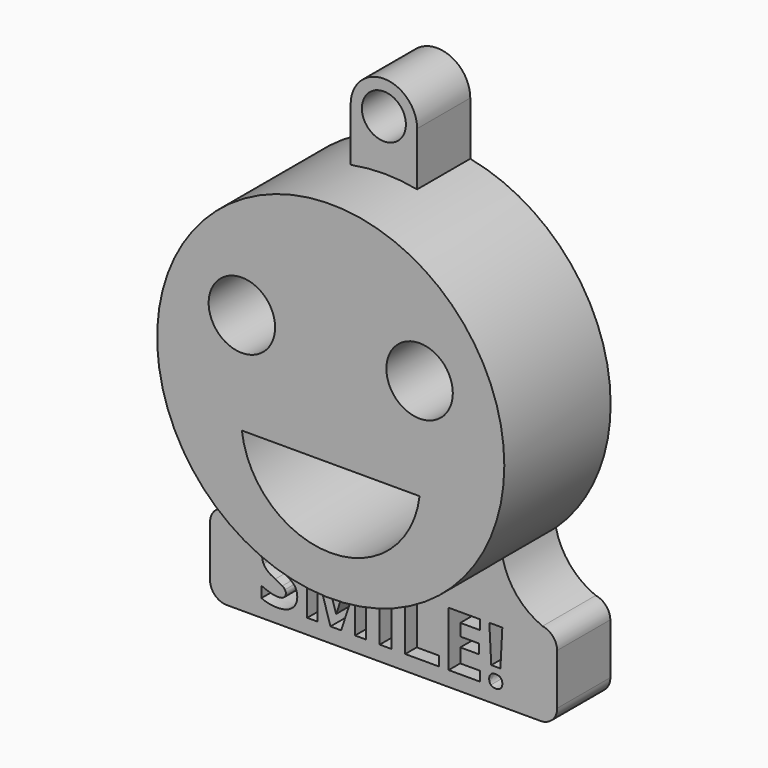
from build123d import *

# Parameters (mm, degrees)
F0_R         = 66.3530558333
F0_R_2       = 12.7
F1_DEPTH     = 25.4
F1_FACE_R    = 66.3530558333
F1_FACE_R_2  = 12.7
F1_FACE1_R   = 66.3530558333
F1_FACE1_R_2 = 12.7
F2_W         = 4.4507078564
F2_H         = 20.9858454036
F2_R         = 8.4066819866
F3_DEPTH     = 25.4


with BuildPart() as f1:
    # F0 (on Front) → F1 (new body)
    with BuildSketch(Plane.XZ):
        Circle(F0_R)
        with BuildLine():
            ThreePointArc((33.9692530815, -20.8659172058), (0, -51.0114037039), (-33.9692530815, -20.8659172058))
            Line((-33.9692530815, -20.8659172058), (33.9692530815, -20.8659172058))
        make_face(mode=Mode.SUBTRACT)
        with Locations((-33.9692530815, 17.9346787966)):
            Circle(F0_R_2, mode=Mode.SUBTRACT)
        with Locations((33.9692530815, 17.9346787966)):
            Circle(F0_R_2, mode=Mode.SUBTRACT)
    extrude(amount=F1_DEPTH)

    # F1_face (on face) + F1_face1 (on face) + F2 (on Front) → F3 (join)
    with BuildSketch(Plane(origin=(0, -25.4, 3.0362688443), x_dir=(1, 0, 0), z_dir=(0, -1, 0))):
        with Locations((0, -3.0362688443)):
            Circle(F1_FACE_R)
        with BuildLine():
            Line((-33.9692530815, -23.9021860501), (33.9692530815, -23.9021860501))
            ThreePointArc((33.9692530815, -23.9021860501), (0, -54.0476725482), (-33.9692530815, -23.9021860501))
        make_face(mode=Mode.SUBTRACT)
        with Locations((-33.9692530815, 14.8984099523)):
            Circle(F1_FACE_R_2, mode=Mode.SUBTRACT)
        with Locations((33.9692530815, 14.8984099523)):
            Circle(F1_FACE_R_2, mode=Mode.SUBTRACT)
    with BuildSketch(Plane(origin=(0, 0, 3.0362688443), x_dir=(1, 0, 0), z_dir=(0, 1, 0))):
        with Locations((0, 3.0362688443)):
            Circle(F1_FACE1_R)
        with BuildLine():
            Line((33.9692530815, 23.9021860501), (-33.9692530815, 23.9021860501))
            ThreePointArc((-33.9692530815, 23.9021860501), (0, 54.0476725482), (33.9692530815, 23.9021860501))
        make_face(mode=Mode.SUBTRACT)
        with Locations((-33.9692530815, -14.8984099523)):
            Circle(F1_FACE1_R_2, mode=Mode.SUBTRACT)
        with Locations((33.9692530815, -14.8984099523)):
            Circle(F1_FACE1_R_2, mode=Mode.SUBTRACT)
    with BuildSketch(Plane.XZ):
        with BuildLine():
            ThreePointArc((-62.3816600836, -66.6768364352), (-65.3384644923, -69.0084552345), (-66.4549320936, -72.6046530366))
            Line((-66.4549320936, -72.6046530366), (-66.4549320936, -92.0591460705))
            ThreePointArc((-66.4549320936, -92.0591460705), (-64.5950601542, -96.549274131), (-60.1049320936, -98.4091460705))
            Line((-60.1049320936, -98.4091460705), (59.8973428065, -98.4091460705))
            ThreePointArc((59.8973428065, -98.4091460705), (64.387470867, -96.549274131), (66.2473428065, -92.0591460705))
            Line((66.2473428065, -92.0591460705), (66.2473428065, -72.6046530366))
            ThreePointArc((66.2473428065, -72.6046530366), (64.5949199756, -68.4188649341), (60.649351561, -66.2546530366))
            Line((60.649351561, -66.2546530366), (58.6019530892, -66.2546530366))
            Line((58.6019530892, -66.2546530366), (-60.1049320936, -66.2546530366))
            ThreePointArc((-60.1049320936, -66.2546530366), (-60.5342273612, -66.2691810279), (-60.9615582829, -66.3126985253))
            ThreePointArc((-60.9615582829, -66.3126985253), (-61.6689814595, -66.5050153427), (-62.3816600836, -66.6768364352))
        make_face()
        with BuildLine():
            add(Edge.make_bspline(
                [(-34.2013412228, -83.4167571957), (-33.1104814541, -84.8291335278), (-33.1104814541, -86.8822464399)],
                knots=[0, 0, 0, 1, 1, 1], degree=2))
            add(Edge.make_bspline(
                [(-33.1104814541, -86.8822464399), (-33.1104814541, -89.7253714793), (-35.1567047255, -91.3628094058)],
                knots=[0, 0, 0, 1, 1, 1], degree=2))
            add(Edge.make_bspline(
                [(-35.1567047255, -91.3628094058), (-37.202927997, -93.0002473324), (-40.8452513511, -93.0002473324)],
                knots=[0, 0, 0, 1, 1, 1], degree=2))
            add(Edge.make_bspline(
                [(-40.8452513511, -93.0002473324), (-44.2073959857, -93.0002473324), (-46.7887146806, -91.7325534538)],
                knots=[0, 0, 0, 1, 1, 1], degree=2))
            Line((-46.7887146806, -91.7325534538), (-46.7887146806, -87.598769067))
            add(Edge.make_bspline(
                [(-46.7887146806, -87.598769067), (-44.666705362, -88.5495394759), (-43.194618811, -88.935359352)],
                knots=[0, 0, 0, 1, 1, 1], degree=2))
            add(Edge.make_bspline(
                [(-43.194618811, -88.935359352), (-41.7225322599, -89.3211792281), (-40.5007693189, -89.3211792281)],
                knots=[0, 0, 0, 1, 1, 1], degree=2))
            add(Edge.make_bspline(
                [(-40.5007693189, -89.3211792281), (-39.0401655022, -89.3211792281), (-38.2570430156, -88.7631183359)],
                knots=[0, 0, 0, 1, 1, 1], degree=2))
            add(Edge.make_bspline(
                [(-38.2570430156, -88.7631183359), (-37.473920529, -88.2050574437), (-37.473920529, -87.0981218468)],
                knots=[0, 0, 0, 1, 1, 1], degree=2))
            add(Edge.make_bspline(
                [(-37.473920529, -87.0981218468), (-37.473920529, -86.4826472825), (-37.8184025612, -86.0003724374)],
                knots=[0, 0, 0, 1, 1, 1], degree=2))
            add(Edge.make_bspline(
                [(-37.8184025612, -86.0003724374), (-38.1628845935, -85.5180975923), (-38.831179736, -85.0748640441)],
                knots=[0, 0, 0, 1, 1, 1], degree=2))
            add(Edge.make_bspline(
                [(-38.831179736, -85.0748640441), (-39.4994748785, -84.631630496), (-41.5525877906, -83.6533015245)],
                knots=[0, 0, 0, 1, 1, 1], degree=2))
            add(Edge.make_bspline(
                [(-41.5525877906, -83.6533015245), (-43.4725009836, -82.7484620531), (-44.434754127, -81.917112082)],
                knots=[0, 0, 0, 1, 1, 1], degree=2))
            add(Edge.make_bspline(
                [(-44.434754127, -81.917112082), (-45.3970072704, -81.0857621109), (-45.9711439908, -79.978826514)],
                knots=[0, 0, 0, 1, 1, 1], degree=2))
            add(Edge.make_bspline(
                [(-45.9711439908, -79.978826514), (-46.5452807111, -78.8718909171), (-46.5452807111, -77.3975078191)],
                knots=[0, 0, 0, 1, 1, 1], degree=2))
            add(Edge.make_bspline(
                [(-46.5452807111, -77.3975078191), (-46.5452807111, -74.6094999049), (-44.6575191745, -73.017992916)],
                knots=[0, 0, 0, 1, 1, 1], degree=2))
            add(Edge.make_bspline(
                [(-44.6575191745, -73.017992916), (-42.7697576379, -71.4264859271), (-39.4397646596, -71.4264859271)],
                knots=[0, 0, 0, 1, 1, 1], degree=2))
            add(Edge.make_bspline(
                [(-39.4397646596, -71.4264859271), (-37.80462328, -71.4264859271), (-36.3187574476, -71.8123058032)],
                knots=[0, 0, 0, 1, 1, 1], degree=2))
            add(Edge.make_bspline(
                [(-36.3187574476, -71.8123058032), (-34.8328916152, -72.1981256793), (-33.2115295168, -72.900869025)],
                knots=[0, 0, 0, 1, 1, 1], degree=2))
            Line((-33.2115295168, -72.900869025), (-34.6445747709, -76.3640617224))
            add(Edge.make_bspline(
                [(-34.6445747709, -76.3640617224), (-36.3256470882, -75.6750976579), (-37.4233964976, -75.401808579)],
                knots=[0, 0, 0, 1, 1, 1], degree=2))
            add(Edge.make_bspline(
                [(-37.4233964976, -75.401808579), (-38.521145907, -75.1285195001), (-39.5821505663, -75.1285195001)],
                knots=[0, 0, 0, 1, 1, 1], degree=2))
            add(Edge.make_bspline(
                [(-39.5821505663, -75.1285195001), (-40.8452513511, -75.1285195001), (-41.5204361343, -75.7164355018)],
                knots=[0, 0, 0, 1, 1, 1], degree=2))
            add(Edge.make_bspline(
                [(-41.5204361343, -75.7164355018), (-42.1956209175, -76.3043515035), (-42.1956209175, -77.2505288187)],
                knots=[0, 0, 0, 1, 1, 1], degree=2))
            add(Edge.make_bspline(
                [(-42.1956209175, -77.2505288187), (-42.1956209175, -77.8384448204), (-41.9223318386, -78.2770852747)],
                knots=[0, 0, 0, 1, 1, 1], degree=2))
            add(Edge.make_bspline(
                [(-41.9223318386, -78.2770852747), (-41.6490427597, -78.7157257291), (-41.0542371174, -79.124511074)],
                knots=[0, 0, 0, 1, 1, 1], degree=2))
            add(Edge.make_bspline(
                [(-41.0542371174, -79.124511074), (-40.459431475, -79.533296419), (-38.2363740937, -80.5943010782)],
                knots=[0, 0, 0, 1, 1, 1], degree=2))
            add(Edge.make_bspline(
                [(-38.2363740937, -80.5943010782), (-35.2922009915, -82.0043808635), (-34.2013412228, -83.4167571957)],
                knots=[0, 0, 0, 1, 1, 1], degree=2))
        make_face(mode=Mode.SUBTRACT)
        with BuildLine():
            Line((-16.3456892187, -92.7108824253), (-20.4243564804, -92.7108824253))
            Line((-20.4243564804, -92.7108824253), (-25.4767596198, -76.2492343783))
            Line((-25.4767596198, -76.2492343783), (-25.6053662451, -76.2492343783))
            add(Edge.make_bspline(
                [(-25.6053662451, -76.2492343783), (-25.3297806194, -81.2694858614), (-25.3297806194, -82.9505581787)],
                knots=[0, 0, 0, 1, 1, 1], degree=2))
            Line((-25.3297806194, -82.9505581787), (-25.3297806194, -92.7108824253))
            Line((-25.3297806194, -92.7108824253), (-29.3073998182, -92.7108824253))
            Line((-29.3073998182, -92.7108824253), (-29.3073998182, -71.7250370217))
            Line((-29.3073998182, -71.7250370217), (-23.2491091447, -71.7250370217))
            Line((-23.2491091447, -71.7250370217), (-18.2839747868, -87.77330663))
            Line((-18.2839747868, -87.77330663), (-18.1967060053, -87.77330663))
            Line((-18.1967060053, -87.77330663), (-12.928427459, -71.7250370217))
            Line((-12.928427459, -71.7250370217), (-6.8747298792, -71.7250370217))
            Line((-6.8747298792, -71.7250370217), (-6.8747298792, -92.7108824253))
            Line((-6.8747298792, -92.7108824253), (-11.0222935473, -92.7108824253))
            Line((-11.0222935473, -92.7108824253), (-11.0222935473, -82.7760206157))
            add(Edge.make_bspline(
                [(-11.0222935473, -82.7760206157), (-11.0222935473, -82.07327727), (-10.9993280785, -81.1546585173)],
                knots=[0, 0, 0, 1, 1, 1], degree=2))
            add(Edge.make_bspline(
                [(-10.9993280785, -81.1546585173), (-10.9763626097, -80.2360397647), (-10.8064181404, -76.2767929409)],
                knots=[0, 0, 0, 1, 1, 1], degree=2))
            Line((-10.8064181404, -76.2767929409), (-10.9350247658, -76.2767929409))
            Line((-10.9350247658, -76.2767929409), (-16.3456892187, -92.7108824253))
        make_face(mode=Mode.SUBTRACT)
        with Locations((0.6326818766, -82.2179597235)):
            Rectangle(F2_W, F2_H, mode=Mode.SUBTRACT)
        Polygon((21.1018042319, -92.7108824253), (8.1400936324, -92.7108824253), (8.1400936324, -71.7250370217), (12.5908014888, -71.7250370217), (12.5908014888, -89.0364074148), (21.1018042319, -89.0364074148), align=None, mode=Mode.SUBTRACT)
        Polygon((36.8331503705, -89.0364074148), (36.8331503705, -92.7108824253), (24.7487206798, -92.7108824253), (24.7487206798, -71.7250370217), (36.8331503705, -71.7250370217), (36.8331503705, -75.3719534696), (29.1994285362, -75.3719534696), (29.1994285362, -79.978826514), (36.3049445878, -79.978826514), (36.3049445878, -83.6257429619), (29.1994285362, -83.6257429619), (29.1994285362, -89.0364074148), align=None, mode=Mode.SUBTRACT)
        with BuildLine():
            add(Edge.make_bspline(
                [(40.9095210853, -92.4582622683), (40.2504121303, -91.8198222353), (40.2504121303, -90.6577695132)],
                knots=[0, 0, 0, 1, 1, 1], degree=2))
            add(Edge.make_bspline(
                [(40.2504121303, -90.6577695132), (40.2504121303, -89.4543789473), (40.895741804, -88.8366078361)],
                knots=[0, 0, 0, 1, 1, 1], degree=2))
            add(Edge.make_bspline(
                [(40.895741804, -88.8366078361), (41.5410714777, -88.218836725), (42.7766137, -88.218836725)],
                knots=[0, 0, 0, 1, 1, 1], degree=2))
            add(Edge.make_bspline(
                [(42.7766137, -88.218836725), (43.9662249846, -88.218836725), (44.618444299, -88.8503871174)],
                knots=[0, 0, 0, 1, 1, 1], degree=2))
            add(Edge.make_bspline(
                [(44.618444299, -88.8503871174), (45.2706636133, -89.4819375098), (45.2706636133, -90.6577695132)],
                knots=[0, 0, 0, 1, 1, 1], degree=2))
            add(Edge.make_bspline(
                [(45.2706636133, -90.6577695132), (45.2706636133, -91.7922636727), (44.6115546583, -92.444482987)],
                knots=[0, 0, 0, 1, 1, 1], degree=2))
            add(Edge.make_bspline(
                [(44.6115546583, -92.444482987), (43.9524457033, -93.0967023014), (42.7766137, -93.0967023014)],
                knots=[0, 0, 0, 1, 1, 1], degree=2))
            add(Edge.make_bspline(
                [(42.7766137, -93.0967023014), (41.5686300403, -93.0967023014), (40.9095210853, -92.4582622683)],
                knots=[0, 0, 0, 1, 1, 1], degree=2))
        make_face(mode=Mode.SUBTRACT)
        Polygon((45.2706636133, -71.7250370217), (44.540361705, -85.7477522804), (41.0404242575, -85.7477522804), (40.3055292554, -71.7250370217), align=None, mode=Mode.SUBTRACT)
        with BuildLine():
            ThreePointArc((-60.9615582829, -66.3126985253), (-61.6821531332, -66.4536471195), (-62.3816600836, -66.6768364352))
            ThreePointArc((-62.3816600836, -66.6768364352), (-61.6689814595, -66.5050153427), (-60.9615582829, -66.3126985253))
        make_face()
        with BuildLine():
            ThreePointArc((-43.0171898532, -46.6046780348), (-49.1966681067, -59.0014776338), (-60.9615582829, -66.3126985253))
            ThreePointArc((-60.9615582829, -66.3126985253), (-60.5342273612, -66.2691810279), (-60.1049320936, -66.2546530366))
            Line((-60.1049320936, -66.2546530366), (58.6019530892, -66.2546530366))
            ThreePointArc((58.6019530892, -66.2546530366), (59.6256523251, -66.1750785354), (60.649351561, -66.2546530366))
            ThreePointArc((60.649351561, -66.2546530366), (50.2869781412, -58.4792403386), (45.107152313, -46.6046780348))
            Line((45.107152313, -46.6046780348), (0, -60.4971349239))
            Line((0, -60.4971349239), (-43.0171898532, -46.6046780348))
        make_face()
        with BuildLine():
            ThreePointArc((60.649351561, -66.2546530366), (59.6256523251, -66.1750785354), (58.6019530892, -66.2546530366))
            Line((58.6019530892, -66.2546530366), (60.649351561, -66.2546530366))
        make_face()
        with BuildLine():
            Line((-12.7, 85.5633541942), (-12.7, 65.2124211192))
            Line((-12.7, 65.2124211192), (12.7, 64.8053959012))
            Line((12.7, 64.8053959012), (12.7, 85.5633541942))
            ThreePointArc((12.7, 85.5633541942), (0, 98.2633541942), (-12.7, 85.5633541942))
        make_face()
        with Locations((0, 85.5633541942)):
            Circle(F2_R, mode=Mode.SUBTRACT)
    extrude(amount=F3_DEPTH, dir=(0, -1, 0))


solid = f1.part
